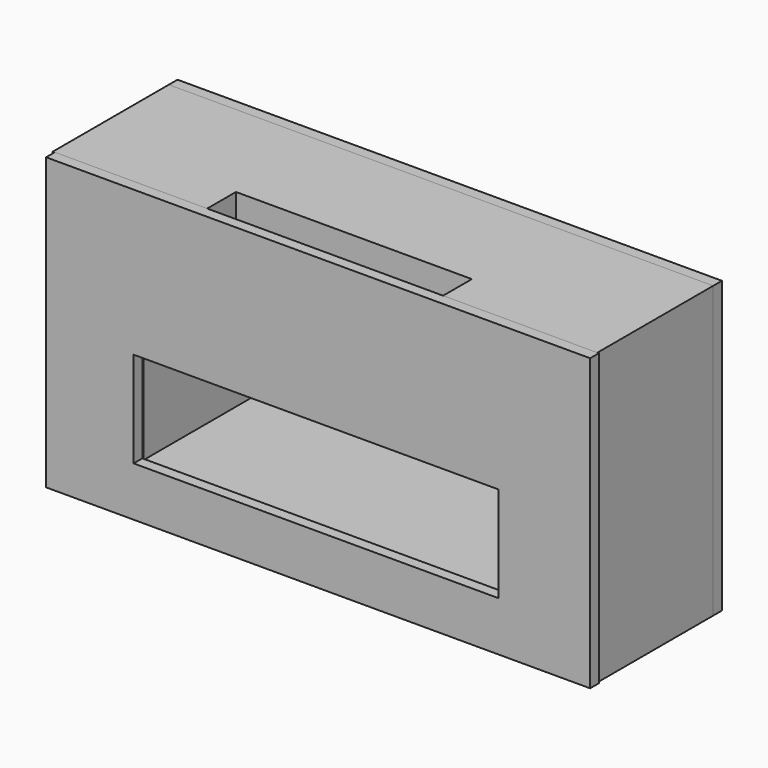
from build123d import *

# Parameters (mm, degrees)
F0_W      = 150
F0_H      = 40
F1_DEPTH  = 80
F2_W      = 65
F2_H      = 20
F4_DEPTH  = 10
F5_W      = 100
F5_H      = 26.3639663465
F7_DEPTH  = 53.3
F8_W      = 59.3146178871
F8_H      = 3.5946303979
F9_DEPTH  = 25
F10_W     = 149.8942822218
F10_H     = 80.0698846579
F11_DEPTH = 3
F12_W     = 100.5468443036
F12_H     = 26.3744816184
F13_DEPTH = 177.9
F14_W     = 150
F14_H     = 80
F15_DEPTH = 3


with BuildPart() as f1:
    # F0 (on Top) → F1 (new body)
    with BuildSketch(Plane.XY):
        Rectangle(F0_W, F0_H)
    extrude(amount=F1_DEPTH)

    # F2 (on face) → F4 (cut)
    with BuildSketch(Plane.XZ.offset(20)):
        with Locations((0, 70)):
            Rectangle(F2_W, F2_H)
    extrude(amount=-F4_DEPTH, mode=Mode.SUBTRACT)

    # F5 (on face) → F7 (cut)
    with BuildSketch(Plane.XZ.offset(20)):
        with Locations((0, 26.5054549091)):
            Rectangle(F5_W, F5_H)
    extrude(amount=-F7_DEPTH, mode=Mode.SUBTRACT)

    # F8 (on face) → F9 (cut)
    with BuildSketch(Plane.XY.offset(60)):
        with Locations((-0.2572024241, -13.9103080146)):
            Rectangle(F8_W, F8_H)
    extrude(amount=-F9_DEPTH, mode=Mode.SUBTRACT)


with BuildPart() as f11:
    # F10 (on face) → F11 (new body)
    with BuildSketch(Plane.XZ.offset(20)):
        with Locations((0.5370080471, 40.0349423289)):
            Rectangle(F10_W, F10_H)
    extrude(amount=F11_DEPTH)

    # F12 (on face) → F13 (cut)
    with BuildSketch(Plane.XZ.offset(23)):
        with Locations((-0.0120140612, 26.8477015197)):
            Rectangle(F12_W, F12_H)
    extrude(amount=-F13_DEPTH, mode=Mode.SUBTRACT)


with BuildPart() as f15:
    # F14 (on face) → F15 (new body)
    with BuildSketch(Plane(origin=(0, 20, 0), x_dir=(-1, 0, 0), z_dir=(0, 1, 0))):
        with Locations((0, 40)):
            Rectangle(F14_W, F14_H)
    extrude(amount=F15_DEPTH)


solid = Compound([f1.part, f11.part, f15.part])
